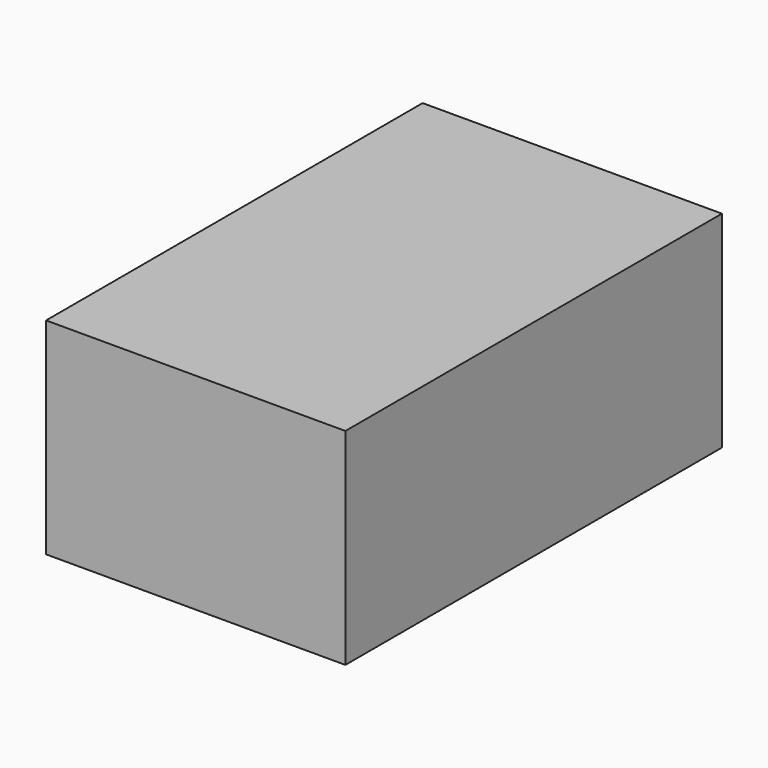
from build123d import *

# Parameters (mm, degrees)
F1_W     = 36.909707
F1_H     = 58.039339
F2_DEPTH = 25.4


with BuildPart() as f2:
    # F1 (on face) → F2 (new body)
    with BuildSketch(Plane.XY):
        with Locations((-37.993499, 21.139706)):
            Rectangle(F1_W, F1_H)
    extrude(amount=F2_DEPTH)


solid = f2.part
